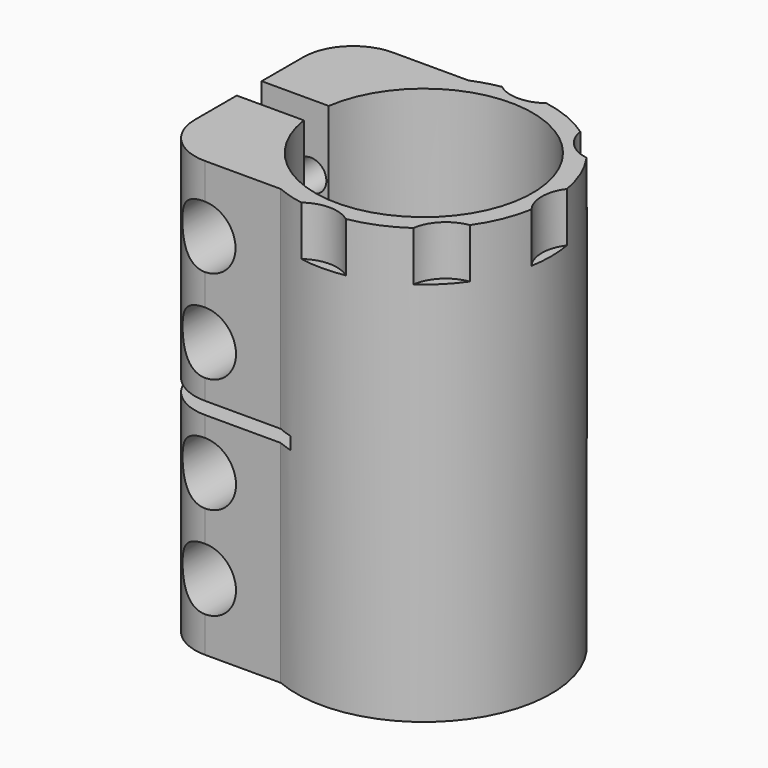
from build123d import *

# Parameters (mm, degrees)
F1_DEPTH       = 35
F3_D           = 5
F3_START       = 1.7550021
F3_START_2     = 1.8205079
F3_CBORE_D     = 10
F3_CBORE_DEPTH = 8
F4_W           = 22.4
F4_H           = 2
F5_DEPTH       = 25
F6_R           = 6
F7_DEPTH       = 8


with BuildPart() as f1:
    # F0 (on Top) → F1 (new body, symmetric)
    with BuildSketch(Plane.XY):
        with BuildLine():
            ThreePointArc((-17.3192642082, 2.5086026559), (17.5, 0), (-17.3192642082, -2.5086026559))
            Line((-17.3192642082, -2.5086026559), (-28.1192642082, -2.5086026559))
            Line((-28.1192642082, -2.5086026559), (-28.1192642082, -10.9086026559))
            ThreePointArc((-28.1192642082, -10.9086026559), (-25.7761184577, -16.5654569054), (-20.1192642082, -18.9086026559))
            Line((-20.1192642082, -18.9086026559), (-7.9192642082, -18.9086026559))
            ThreePointArc((-7.9192642082, -18.9086026559), (20.5, 0), (-7.9192642082, 18.9086026559))
            Line((-7.9192642082, 18.9086026559), (-20.1192642082, 18.9086026559))
            ThreePointArc((-20.1192642082, 18.9086026559), (-25.7761184577, 16.5654569054), (-28.1192642082, 10.9086026559))
            Line((-28.1192642082, 10.9086026559), (-28.1192642082, 2.5086026559))
            Line((-28.1192642082, 2.5086026559), (-17.3192642082, 2.5086026559))
        make_face()
    extrude(amount=F1_DEPTH, both=True)

    # F3 (through all)
    # its depths count from where the whole tool has entered the part; down to there all is cleared
    with Locations(Plane.XZ.offset(18.9086026559)):
        with Locations((-20.1192642082, -24.25, -F3_START), (-20.1192642082, -9.25, -F3_START), (-20.1192642082, 9.25, -F3_START), (-20.2, 24.25, -F3_START_2)):
            CounterBoreHole(F3_D / 2, F3_CBORE_D / 2, F3_CBORE_DEPTH)

    # F4 (on Front) → F5 (cut, symmetric)
    with BuildSketch(Plane.XZ):
        with Locations((-16.9192642082, 0)):
            Rectangle(F4_W, F4_H)
    extrude(amount=F5_DEPTH, both=True, mode=Mode.SUBTRACT)

    # F6 (on face) → F7 (cut)
    with BuildSketch(Plane.XY.offset(35)):
        with Locations((0, -25)):
            Circle(F6_R)
        with Locations((17.6776695297, -17.6776695297)):
            Circle(F6_R)
        with Locations((25, 0)):
            Circle(F6_R)
        with Locations((17.6776695297, 17.6776695297)):
            Circle(F6_R)
        with Locations((0, 25)):
            Circle(F6_R)
    extrude(amount=-F7_DEPTH, mode=Mode.SUBTRACT)


solid = f1.part
